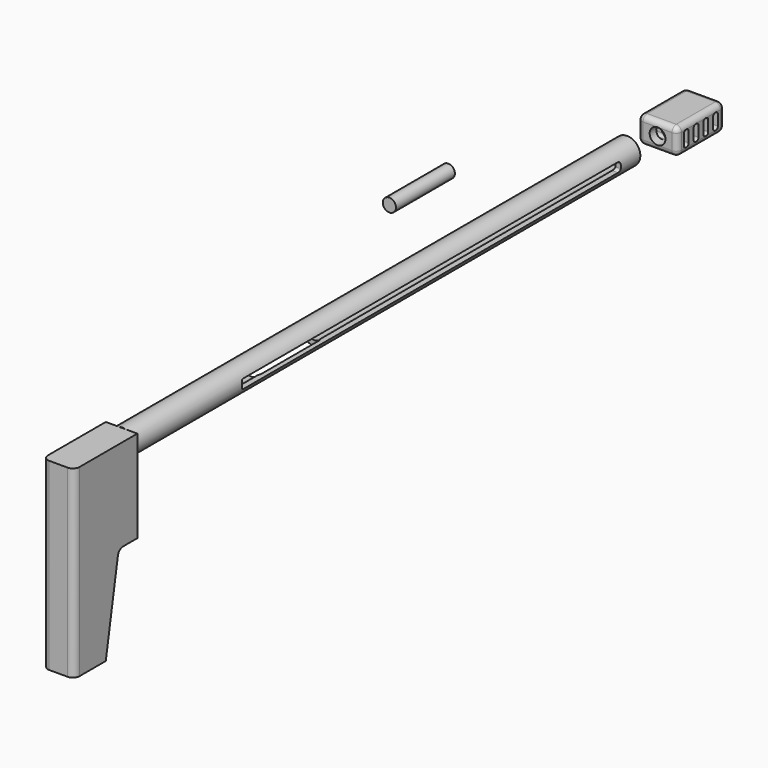
from build123d import *

# Parameters (mm, degrees)
F0_W           = 71.12
F0_H           = 6.35
F1_W           = 609.6
F1_H           = 12.7
F4_R           = 7.62
F5_DEPTH       = 649.478
F7_DEPTH       = 15.24
F7_DEPTH_BACK  = 15.24
F9_DEPTH       = 189.992
F11_DEPTH      = 25.4
F13_DEPTH      = 25.4
F14_W          = 38.1
F14_H          = 57.15
F15_DEPTH      = 12.7
F15_DEPTH_BACK = 12.7
F16_R          = 5.08
F18_DEPTH      = 52.7812
F19_R          = 7.629372
F20_DEPTH      = 70.104


with BuildPart() as f2:
    # F0 (on Right) → F2 (revolve)
    with BuildSketch(Plane.YZ):
        with Locations((-0.93839, 73.587984)):
            Rectangle(F0_W, F0_H)
    revolve(axis=Axis((0, -0.93839, 70.412984), (0, 1, 0)))


with BuildPart() as f3:
    # F1 (on Right) → F3 (revolve)
    with BuildSketch(Plane.YZ):
        with Locations((-54.320889, 6.19796)):
            Rectangle(F1_W, F1_H)
    revolve(axis=Axis((0, -54.320889, -0.15204), (0, 1, 0)))

    # F4 (on face) → F5 (cut)
    with BuildSketch(Plane.XZ.offset(359.120889)):
        Circle(F4_R)
    extrude(amount=-F5_DEPTH, mode=Mode.SUBTRACT)

    # F10 (on Right) → F11 (cut)
    with BuildSketch(Plane.YZ):
        with BuildLine():
            Line((224.476279, 4.572), (-227.643721, 4.572))
            ThreePointArc((-227.643721, 4.572), (-229.439772, 3.828051), (-230.183721, 2.032))
            Line((-230.183721, 2.032), (-230.183721, -1.778))
            ThreePointArc((-230.183721, -1.778), (-229.439772, -3.574051), (-227.643721, -4.318))
            Line((-227.643721, -4.318), (224.476279, -4.318))
            ThreePointArc((224.476279, -4.318), (226.272331, -3.574051), (227.016279, -1.778))
            Line((227.016279, -1.778), (227.016279, 2.032))
            ThreePointArc((227.016279, 2.032), (226.272331, 3.828051), (224.476279, 4.572))
        make_face()
    extrude(amount=F11_DEPTH, mode=Mode.SUBTRACT)

    # F12 (on Top) → F13 (cut)
    with BuildSketch(Plane.XY):
        with BuildLine():
            Line((-8.08273, -129.558162), (-8.08273, -200.678162))
            ThreePointArc((-8.08273, -200.678162), (-7.338782, -202.474213), (-5.54273, -203.218162))
            Line((-5.54273, -203.218162), (4.61727, -203.218162))
            ThreePointArc((4.61727, -203.218162), (6.413321, -202.474213), (7.15727, -200.678162))
            Line((7.15727, -200.678162), (7.15727, -129.558162))
            ThreePointArc((7.15727, -129.558162), (6.413321, -127.762111), (4.61727, -127.018162))
            Line((4.61727, -127.018162), (-5.54273, -127.018162))
            ThreePointArc((-5.54273, -127.018162), (-7.338782, -127.762111), (-8.08273, -129.558162))
        make_face()
    extrude(amount=-F13_DEPTH, mode=Mode.SUBTRACT)


with BuildPart() as f7:
    # F6 (on Right) → F7 (new body, two sides)
    with BuildSketch(Plane.YZ) as f7_sk:
        with BuildLine():
            Line((-359.690019, -76.397017), (-359.690019, 12.502983))
            Line((-359.690019, 12.502983), (-435.890019, 12.502983))
            Line((-435.890019, 12.502983), (-435.890019, -165.297017))
            Line((-435.890019, -165.297017), (-397.790019, -165.297017))
            Line((-397.790019, -165.297017), (-383.178852, -81.65431))
            ThreePointArc((-383.178852, -81.65431), (-381.009148, -77.885886), (-376.923575, -76.397017))
            Line((-376.923575, -76.397017), (-359.690019, -76.397017))
        make_face()
    extrude(amount=F7_DEPTH)
    extrude(f7_sk.sketch, amount=-F7_DEPTH_BACK)

    # F8 (on face) → F9 (cut)
    with BuildSketch(Plane.XY.offset(12.502983)):
        with BuildLine():
            Line((8.89, -435.890019), (-8.89, -435.890019))
            ThreePointArc((-8.89, -435.890019), (-13.380128, -434.030147), (-15.24, -429.540019))
            Line((-15.24, -429.540019), (-26.430005, -429.540019))
            Line((-26.430005, -429.540019), (-26.430005, -444.212139))
            Line((-26.430005, -444.212139), (23.71587, -444.212139))
            Line((23.71587, -444.212139), (23.71587, -428.85375))
            Line((23.71587, -428.85375), (15.24, -429.540019))
            ThreePointArc((15.24, -429.540019), (13.380128, -434.030147), (8.89, -435.890019))
        make_face()
    extrude(amount=-F9_DEPTH, mode=Mode.SUBTRACT)


with BuildPart() as f15:
    # F14 (on Top) → F15 (new body, two sides)
    with BuildSketch(Plane.XY) as f15_sk:
        with Locations((3.246469, 311.669601)):
            Rectangle(F14_W, F14_H)
    extrude(amount=F15_DEPTH)
    extrude(f15_sk.sketch, amount=-F15_DEPTH_BACK)

    # F16
    f16_edges = [f15.edges().sort_by_distance(p)[0] for p in [
        (-15.803531, 311.669601, 12.7),
        (-15.803531, 311.669601, -12.7),
        (22.296469, 311.669601, -12.7),
        (22.296469, 311.669601, 12.7),
        (3.246469, 340.244601, 12.7),
        (3.246469, 340.244601, -12.7),
        (22.296469, 340.244601, 0),
        (-15.803531, 340.244601, 0),
        (-15.803531, 283.094601, 0),
        (22.296469, 283.094601, 0),
        (3.246469, 283.094601, 12.7),
        (3.246469, 283.094601, -12.7),
    ]]
    fillet(f16_edges, radius=F16_R)

    # F17 (on face) → F18 (cut)
    with BuildSketch(Plane.YZ.offset(22.296469)):
        with BuildLine():
            ThreePointArc((305.30694, 7.62), (303.510888, 6.876051), (302.76694, 5.08))
            Line((302.76694, 5.08), (302.76694, -5.08))
            ThreePointArc((302.76694, -5.08), (303.510888, -6.876051), (305.30694, -7.62))
            Line((305.30694, -7.62), (306.10069, -7.62))
            ThreePointArc((306.10069, -7.62), (307.896741, -6.876051), (308.64069, -5.08))
            Line((308.64069, -5.08), (308.64069, 5.08))
            ThreePointArc((308.64069, 5.08), (307.896741, 6.876051), (306.10069, 7.62))
            Line((306.10069, 7.62), (305.30694, 7.62))
        make_face()
        with BuildLine():
            ThreePointArc((317.05444, 7.62), (315.258388, 6.876051), (314.51444, 5.08))
            Line((314.51444, 5.08), (314.51444, -5.08))
            ThreePointArc((314.51444, -5.08), (315.258388, -6.876051), (317.05444, -7.62))
            Line((317.05444, -7.62), (317.84819, -7.62))
            ThreePointArc((317.84819, -7.62), (319.644241, -6.876051), (320.38819, -5.08))
            Line((320.38819, -5.08), (320.38819, 5.08))
            ThreePointArc((320.38819, 5.08), (319.644241, 6.876051), (317.84819, 7.62))
            Line((317.84819, 7.62), (317.05444, 7.62))
        make_face()
        with BuildLine():
            ThreePointArc((328.80194, 7.62), (327.005888, 6.876051), (326.26194, 5.08))
            Line((326.26194, 5.08), (326.26194, -5.08))
            ThreePointArc((326.26194, -5.08), (327.005888, -6.876051), (328.80194, -7.62))
            Line((328.80194, -7.62), (329.59569, -7.62))
            ThreePointArc((329.59569, -7.62), (331.391741, -6.876051), (332.13569, -5.08))
            Line((332.13569, -5.08), (332.13569, 5.08))
            ThreePointArc((332.13569, 5.08), (331.391741, 6.876051), (329.59569, 7.62))
            Line((329.59569, 7.62), (328.80194, 7.62))
        make_face()
        with BuildLine():
            Line((296.89319, -5.08), (296.89319, 5.08))
            ThreePointArc((296.89319, 5.08), (296.149241, 6.876051), (294.35319, 7.62))
            Line((294.35319, 7.62), (293.55944, 7.62))
            ThreePointArc((293.55944, 7.62), (291.763388, 6.876051), (291.01944, 5.08))
            Line((291.01944, 5.08), (291.01944, -5.08))
            ThreePointArc((291.01944, -5.08), (291.763388, -6.876051), (293.55944, -7.62))
            Line((293.55944, -7.62), (294.35319, -7.62))
            ThreePointArc((294.35319, -7.62), (296.149241, -6.876051), (296.89319, -5.08))
        make_face()
    extrude(amount=-F18_DEPTH, mode=Mode.SUBTRACT)

    # F19 (on face) → F20 (cut)
    with BuildSketch(Plane(origin=(0, 340.244601, 0), x_dir=(-1, 0, 0), z_dir=(0, 1, 0))):
        with Locations((-3.246469, 0)):
            Circle(F19_R)
    extrude(amount=-F20_DEPTH, mode=Mode.SUBTRACT)


solid = Compound([f2.part, f3.part, f7.part, f15.part])
